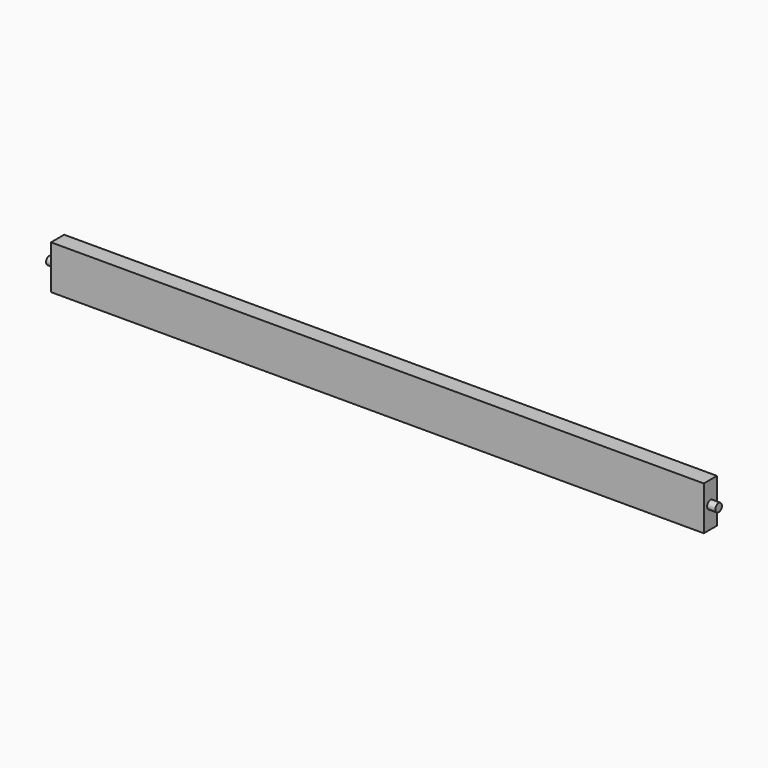
from build123d import *

# Parameters (mm, degrees)
F0_W     = 755.65
F0_H     = 19.05
F1_DEPTH = 50.8
F3_R     = 4.7625
F4_DEPTH = 9.525
F6_R     = 4.7625
F7_DEPTH = 9.525


with BuildPart() as f1:
    # F0 (on Top) → F1 (new body)
    with BuildSketch(Plane.XY):
        Rectangle(F0_W, F0_H)
    extrude(amount=F1_DEPTH)

    # F3 (on offset) → F4 (join)
    with BuildSketch(Plane.YZ.offset(377.825)):
        with Locations((0, 25.4)):
            Circle(F3_R)
    extrude(amount=F4_DEPTH)

    # F6 (on offset) → F7 (join)
    with BuildSketch(Plane.YZ.offset(-377.825)):
        with Locations((0, 25.418339)):
            Circle(F6_R)
    extrude(amount=-F7_DEPTH)


solid = f1.part
